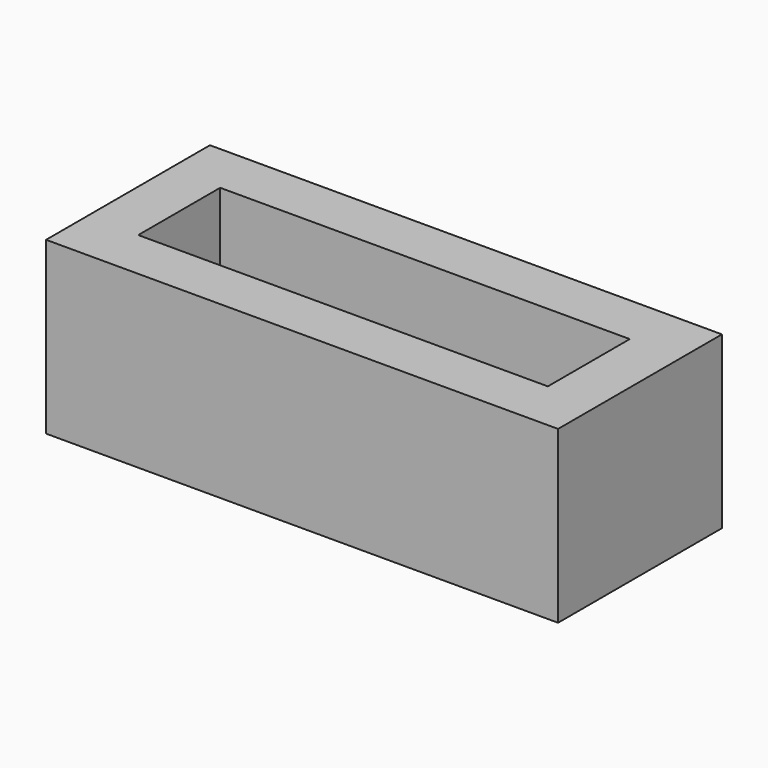
from build123d import *

# Parameters (mm, degrees)
F1_DEPTH = 10


with BuildPart() as f1:
    # F0 (on Top) → F1 (new body)
    with BuildSketch(Plane.XY):
        Polygon((-1.071509, 6.968607), (-8.571509, 9.968607), (-8.571509, -2.031393), (-1.071509, 0.968607), (-5.571509, 0.968607), (-5.571509, 6.968607), align=None)
        Polygon((21.428491, 9.968607), (-8.571509, 9.968607), (-1.071509, 6.968607), (13.928491, 6.968607), align=None)
        Polygon((21.428491, -2.031393), (21.428491, 9.968607), (13.928491, 6.968607), (18.428491, 6.968607), (18.428491, 0.968607), (13.928491, 0.968607), align=None)
        Polygon((-1.071509, 0.968607), (-8.571509, -2.031393), (21.428491, -2.031393), (13.928491, 0.968607), align=None)
    extrude(amount=F1_DEPTH)


solid = f1.part
